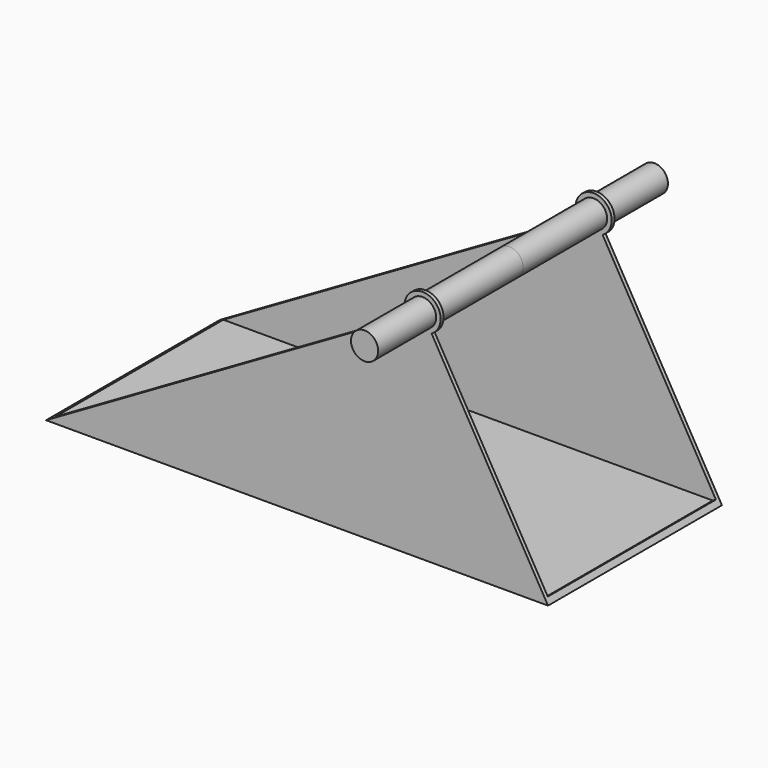
from build123d import *

# Parameters (mm, degrees)
F1_DEPTH  = 76.2
F2_T      = -2.54
F3_DEPTH  = 2.54
F5_DEPTH  = 2.54
F6_DEPTH  = 2.54
F8_DEPTH  = 2.54
F9_DEPTH  = 2.54
F10_R     = 9.525
F11_DEPTH = 127
F12_DEPTH = 127


with BuildPart() as f1:
    # F0 (on Front) → F1 (new body, symmetric)
    with BuildSketch(Plane.XZ):
        Polygon((-358.2624146525, -162.3070820507), (-6.3096905545, -162.3070820507), (-94.297871579, -9.9070820507), align=None)
    extrude(amount=F1_DEPTH, both=True)

    # F2
    f2_openings = [f1.faces().sort_by_distance(p)[0] for p in [
        (-226.280143, 0, -86.107082),
    ]]
    offset(amount=F2_T, openings=f2_openings)

    # F3 (cut): a face of the model
    f3_faces = [f1.faces().sort_by_distance(p)[0] for p in [
        (-53.6033378552, 0, -85.4720820507),
    ]]
    extrude(f3_faces, amount=-F3_DEPTH, mode=Mode.SUBTRACT)

    # F4 (on face) → F5 (join)
    with BuildSketch(Plane.XZ.offset(76.2)):
        with BuildLine():
            ThreePointArc((-87.947871579, -20.9056046787), (-83.299348951, -16.2570820507), (-81.597871579, -9.9070820507))
            ThreePointArc((-81.597871579, -9.9070820507), (-97.5848734518, 2.3601759432), (-105.2963942071, -16.2570820507))
            Line((-105.2963942071, -16.2570820507), (-102.5467635501, -14.6695820507))
            ThreePointArc((-102.5467635501, -14.6695820507), (-96.7631229836, -0.7066385553), (-84.772871579, -9.9070820507))
            ThreePointArc((-84.772871579, -9.9070820507), (-86.048979608, -14.6695820507), (-89.535371579, -18.1559740217))
            Line((-89.535371579, -18.1559740217), (-87.947871579, -20.9056046787))
        make_face()
    extrude(amount=-F5_DEPTH)

    # F4 (on face) → F6 (cut)
    with BuildSketch(Plane.XZ.offset(76.2)):
        with BuildLine():
            Line((-94.297871579, -9.9070820507), (-102.5467635501, -14.6695820507))
            ThreePointArc((-102.5467635501, -14.6695820507), (-96.7631229836, -19.1075255461), (-89.535371579, -18.1559740217))
            Line((-89.535371579, -18.1559740217), (-94.297871579, -9.9070820507))
        make_face()
    extrude(amount=-F6_DEPTH, mode=Mode.SUBTRACT)

    # F7 (on face) → F8 (join)
    with BuildSketch(Plane(origin=(0, 76.2, 0), x_dir=(-1, 0, 0), z_dir=(0, 1, 0))):
        with BuildLine():
            ThreePointArc((105.2963942071, -16.2570820507), (106.5651295729, -13.1940839235), (106.997871579, -9.9070820507))
            ThreePointArc((106.997871579, -9.9070820507), (87.947871579, 1.0914405774), (87.947871579, -20.9056046787))
            Line((87.947871579, -20.9056046787), (89.535371579, -18.1559740217))
            ThreePointArc((89.535371579, -18.1559740217), (89.535371579, -1.6581900796), (103.822871579, -9.9070820507))
            ThreePointArc((103.822871579, -9.9070820507), (103.4983150745, -12.3723334553), (102.5467635501, -14.6695820507))
            Line((102.5467635501, -14.6695820507), (105.2963942071, -16.2570820507))
        make_face()
    extrude(amount=-F8_DEPTH)

    # F7 (on face) → F9 (cut)
    with BuildSketch(Plane(origin=(0, 76.2, 0), x_dir=(-1, 0, 0), z_dir=(0, 1, 0))):
        with BuildLine():
            Line((94.297871579, -9.9070820507), (89.535371579, -18.1559740217))
            ThreePointArc((89.535371579, -18.1559740217), (96.7631229836, -19.1075255461), (102.5467635501, -14.6695820507))
            Line((102.5467635501, -14.6695820507), (94.297871579, -9.9070820507))
        make_face()
    extrude(amount=-F9_DEPTH, mode=Mode.SUBTRACT)


with BuildPart() as f11:
    # F10 (on Front) → F11 (new body)
    with BuildSketch(Plane.XZ):
        with Locations((-94.297871579, -9.9070820507)):
            Circle(F10_R)
    extrude(amount=F11_DEPTH)


with BuildPart() as f12:
    # F12 (new): a face of the model
    f12_faces = [f11.part.faces().sort_by_distance(p)[0] for p in [
        (-94.297871579, 0, -9.9070820507),
    ]]
    extrude(f12_faces, amount=F12_DEPTH)


solid = Compound([f1.part, f11.part, f12.part])
